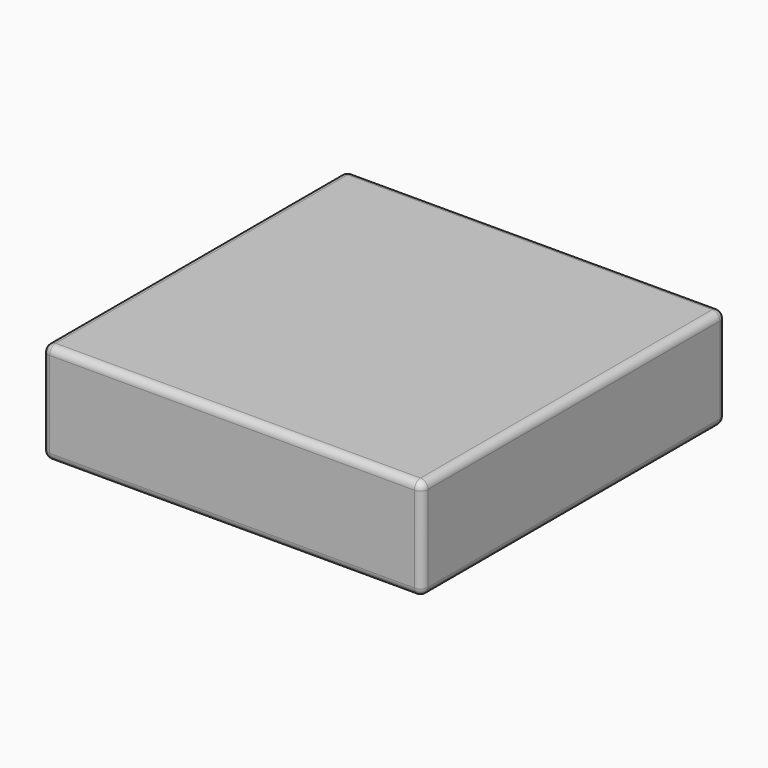
from build123d import *

# Parameters (mm, degrees)
F0_W     = 3810
F0_H     = 1016
F1_DEPTH = 3810
F2_R     = 76.2


with BuildPart() as f1:
    # F0 (on Front) → F1 (new body)
    with BuildSketch(Plane.XZ):
        with Locations((251.8798733399, 19.5077396929)):
            Rectangle(F0_W, F0_H)
        with Locations((251.8798733399, 19.5077396929)):
            Rectangle(F0_W, F0_H)
    extrude(amount=F1_DEPTH)

    # F2
    f2_edges = [f1.edges().sort_by_distance(p)[0] for p in [
        (251.879873, -3810, 527.50774),
        (-1653.120127, -1905, 527.50774),
        (251.879873, 0, 527.50774),
        (2156.879873, -1905, 527.50774),
        (2156.879873, 0, 19.50774),
        (2156.879873, -3810, 19.50774),
        (-1653.120127, 0, 19.50774),
        (251.879873, 0, -488.49226),
        (-1653.120127, -3810, 19.50774),
        (251.879873, -3810, -488.49226),
        (2156.879873, -1905, -488.49226),
        (-1653.120127, -1905, -488.49226),
    ]]
    fillet(f2_edges, radius=F2_R)


solid = f1.part
